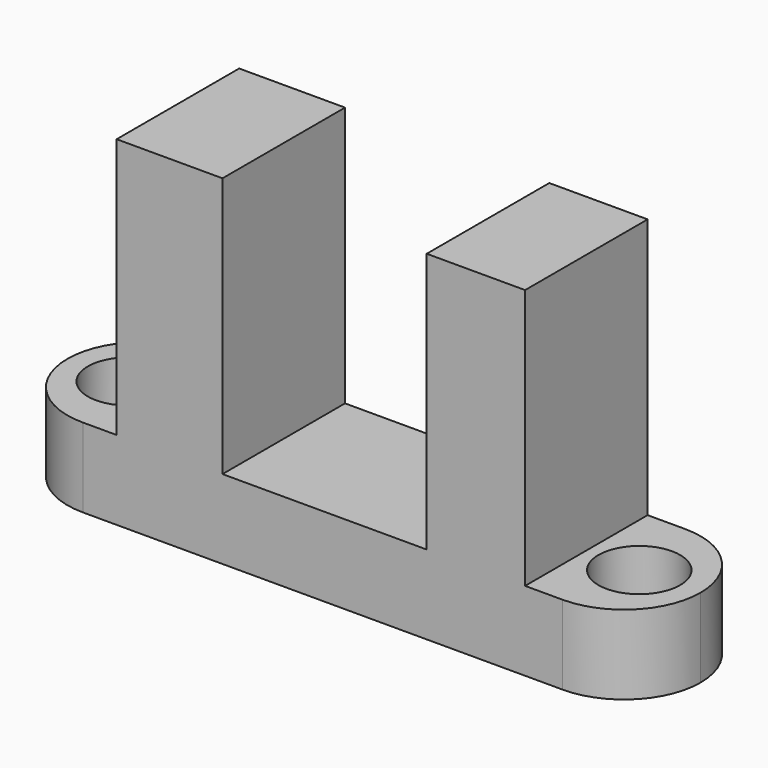
from build123d import *

# Parameters (mm, degrees)
F0_R     = 1.6
F1_DEPTH = 3.1
F3_DEPTH = 10.2


with BuildPart() as f1:
    # F0 (on Top) → F1 (new body)
    with BuildSketch(Plane.XY):
        with BuildLine():
            ThreePointArc((12.4, 0), (11.5213203436, 2.1213203436), (9.4, 3))
            Line((9.4, 3), (-9.4, 3))
            ThreePointArc((-9.4, 3), (-11.5213203436, 2.1213203436), (-12.4, 0))
            ThreePointArc((-12.4, 0), (-11.5213203436, -2.1213203436), (-9.4, -3))
            Line((-9.4, -3), (9.4, -3))
            ThreePointArc((9.4, -3), (11.5213203436, -2.1213203436), (12.4, 0))
        make_face()
        with Locations((-10, 0)):
            Circle(F0_R, mode=Mode.SUBTRACT)
        with BuildLine():
            ThreePointArc((11.6, 0), (10, -1.6), (8.4, 0))
            ThreePointArc((8.4, 0), (10, 1.6), (11.6, 0))
        make_face(mode=Mode.SUBTRACT)
    extrude(amount=F1_DEPTH)

    # F2 (on face) → F3 (join)
    with BuildSketch(Plane.XY.offset(3.1)):
        Polygon((-3.9267988071, -3), (-3.9267988071, 0), (-3.9267988071, 3), (-8.0732011929, 3), (-8.0732011929, -3), align=None)
        Polygon((4.0732011929, 3), (4.0732011929, 0), (4.0732011929, -3), (7.9267988071, -3), (7.9267988071, 3), align=None)
    extrude(amount=F3_DEPTH)


solid = f1.part
